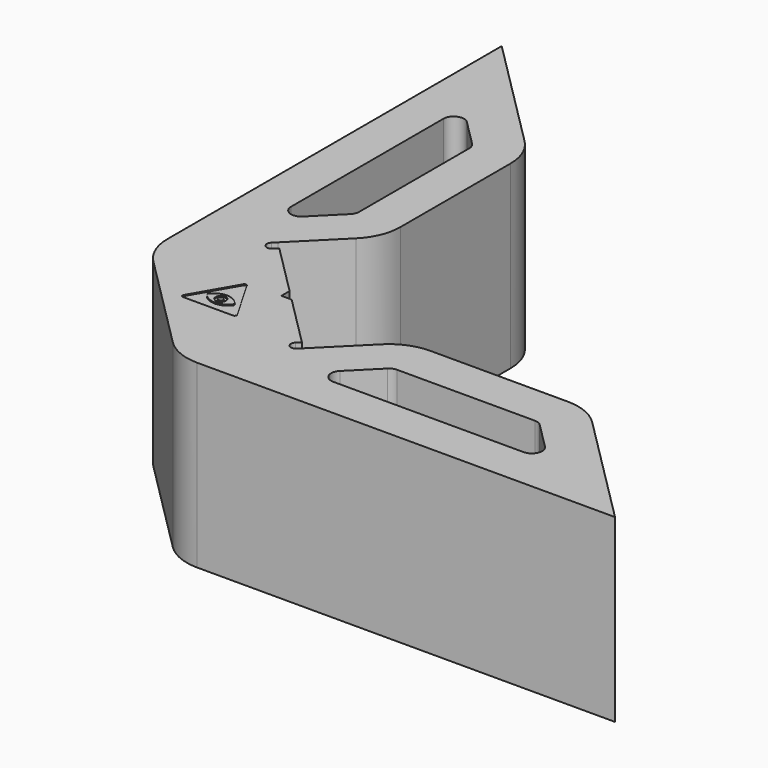
from build123d import *

# Parameters (mm, degrees)
F1_DEPTH  = 35
F2_R      = 10
F4_DEPTH  = 35.001
F6_DEPTH  = 35.001
F7_R      = 2
F9_DEPTH  = 0.2
F10_R     = 1
F10_R_2   = 0.5
F11_DEPTH = 0.2


with BuildPart() as f1:
    # F0 (on Top) → F1 (new body)
    with BuildSketch(Plane.XY):
        Polygon((0, 110), (0, 24.7487373415), (24.7487373415, 0), (110, 0), (84.8743686708, 25.1256313292), (49.8743686708, 25.1256313292), (38.5, 13.7512626585), (27.1256313292, 25.1256313292), (25.1256313292, 25.1256313292), (25.1256313292, 27.1256313292), (13.7512626585, 38.5), (25.1256313292, 49.8743686708), (25.1256313292, 84.8743686708), align=None)
    extrude(amount=F1_DEPTH)

    # F2
    f2_edges = [f1.edges().sort_by_distance(p)[0] for p in [
        (84.874369, 25.125631, 17.5),
        (25.125631, 49.874369, 17.5),
        (25.125631, 84.874369, 17.5),
        (0, 24.748737, 17.5),
        (24.748737, 0, 17.5),
        (49.874369, 25.125631, 17.5),
    ]]
    fillet(f2_edges, radius=F2_R)

    # F3 (on face) → F4 (cut, through all)
    with BuildSketch(Plane.XY.offset(35)):
        with BuildLine():
            Line((15.1654762208, 37.0857864376), (13.7512626585, 38.5))
            Line((13.7512626585, 38.5), (13.0441558773, 37.7928932188))
            ThreePointArc((13.0441558773, 37.7928932188), (13.0441558773, 36.3786796564), (14.4583694397, 36.3786796564))
            Line((14.4583694397, 36.3786796564), (15.1654762208, 37.0857864376))
        make_face()
        with BuildLine():
            Line((37.7928932188, 13.0441558773), (38.5, 13.7512626585))
            Line((38.5, 13.7512626585), (37.0857864376, 15.1654762208))
            Line((37.0857864376, 15.1654762208), (36.3786796564, 14.4583694397))
            ThreePointArc((36.3786796564, 14.4583694397), (36.3786796564, 13.0441558773), (37.7928932188, 13.0441558773))
        make_face()
    extrude(amount=-F4_DEPTH, mode=Mode.SUBTRACT)

    # F5 (on face) → F6 (cut, through all)
    with BuildSketch(Plane.XY.offset(35)):
        with BuildLine():
            Line((8, 90.686291501), (8, 44.0624458405))
            Line((8, 44.0624458405), (16.5398448916, 52.6022907321))
            ThreePointArc((16.5398448916, 52.6022907321), (16.9733903943, 53.2511374298), (17.1256313292, 54.0165042945))
            Line((17.1256313292, 54.0165042945), (17.1256313292, 80.732233047))
            ThreePointArc((17.1256313292, 80.732233047), (16.9733903943, 81.4975999118), (16.5398448916, 82.1464466094))
            Line((16.5398448916, 82.1464466094), (8, 90.686291501))
        make_face()
        with BuildLine():
            ThreePointArc((82.1464466094, 16.5398448916), (81.4975999118, 16.9733903943), (80.732233047, 17.1256313292))
            Line((80.732233047, 17.1256313292), (54.0165042945, 17.1256313292))
            ThreePointArc((54.0165042945, 17.1256313292), (53.2511374298, 16.9733903943), (52.6022907321, 16.5398448916))
            Line((52.6022907321, 16.5398448916), (44.0624458405, 8))
            Line((44.0624458405, 8), (90.686291501, 8))
            Line((90.686291501, 8), (82.1464466094, 16.5398448916))
        make_face()
    extrude(amount=-F6_DEPTH, mode=Mode.SUBTRACT)

    # F7
    f7_edges = [f1.edges().sort_by_distance(p)[0] for p in [
        (8, 90.686292, 17.5),
        (8, 44.062446, 17.5),
        (44.062446, 8, 17.5),
        (90.686292, 8, 17.5),
    ]]
    fillet(f7_edges, radius=F7_R)

    # F8 (on face) → F9 (cut)
    with BuildSketch(Plane.XY.offset(35)):
        with BuildLine():
            ThreePointArc((18.9464101615, 24.5), (18.6, 24.7), (18.2535898385, 24.5))
            Line((18.2535898385, 24.5), (13.4038475773, 16.1))
            ThreePointArc((13.4038475773, 16.1), (13.4038475773, 15.7), (13.7502577388, 15.5))
            Line((13.7502577388, 15.5), (23.4497422612, 15.5))
            ThreePointArc((23.4497422612, 15.5), (23.7961524227, 15.7), (23.7961524227, 16.1))
            Line((23.7961524227, 16.1), (18.9464101615, 24.5))
        make_face()
        with BuildLine():
            ThreePointArc((15.9125, 18.6), (18.6, 20.075), (21.2875, 18.6))
            ThreePointArc((21.2875, 18.6), (18.6, 17.125), (15.9125, 18.6))
        make_face(mode=Mode.SUBTRACT)
    extrude(amount=-F9_DEPTH, mode=Mode.SUBTRACT)

    # F10 (on face) → F11 (cut, through all)
    with BuildSketch(Plane.XY.offset(35)):
        with Locations((18.6, 18.6)):
            Circle(F10_R)
        with Locations((18.6, 18.6)):
            Circle(F10_R_2, mode=Mode.SUBTRACT)
    extrude(amount=-F11_DEPTH, mode=Mode.SUBTRACT)


solid = f1.part
